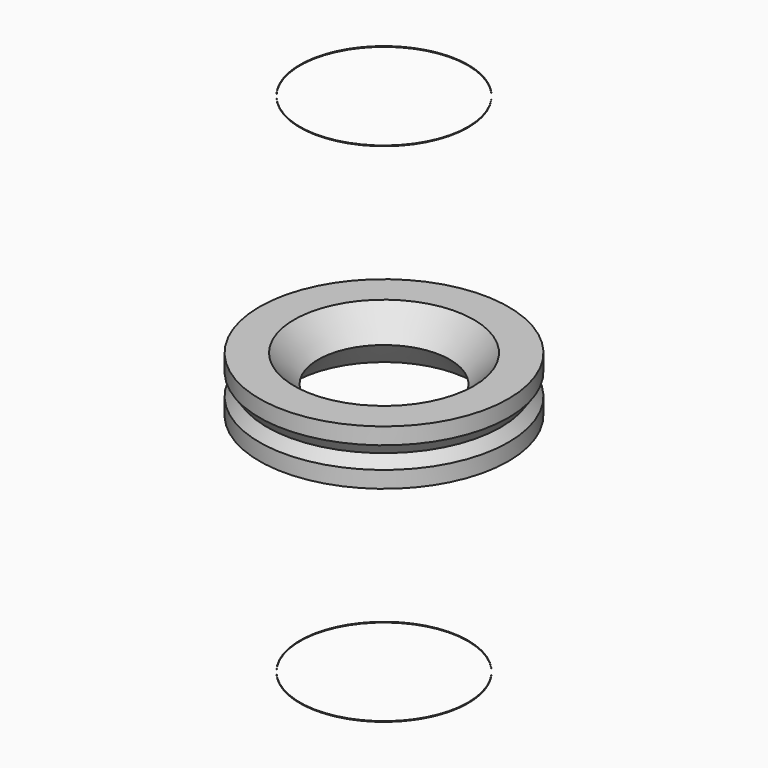
from build123d import *


with BuildPart() as f1:
    # F0 (on Front) → F1 (revolve)
    with BuildSketch(Plane.XZ):
        with BuildLine():
            Line((35.8426310212, 160.8678996653), (35.8426310212, 161.1762195916))
            add(Edge.make_bspline(
                [(35.8426310212, 161.1762195916), (35.7692510566, 161.1782799319), (35.8059410389, 161.0230897986), (35.8426310212, 160.8678996653)],
                knots=[0.9757932931, 0.9757932931, 0.9757932931, 0.9757932931, 1, 1, 1, 1], degree=3))
        make_face()
    revolve(axis=Axis((0, 0, -4.085291177), (0, 0, -1)))


with BuildPart() as f1b:
    # F0 (on Front) → F1, piece 2 (revolve)
    with BuildSketch(Plane.XZ):
        with BuildLine():
            add(Edge.make_bspline(
                [(35.8426310212, -55.2670210635), (35.7692510566, -55.2690814038), (35.8059410389, -55.1138912704), (35.8426310212, -54.9587011372)],
                knots=[0.9757932931, 0.9757932931, 0.9757932931, 0.9757932931, 1, 1, 1, 1], degree=3))
            Line((35.8426310212, -55.2670210635), (35.8426310212, -54.9587011372))
        make_face()
    revolve(axis=Axis((0, 0, -4.085291177), (0, 0, -1)))


with BuildPart() as f1c:
    # F0 (on Front) → F1, piece 3 (revolve)
    with BuildSketch(Plane.XZ):
        Polygon((38.3092164993, 64.670898023), (28.1345378608, 52.9545992641), (38.3092164993, 41.2383005051), (41.6699527481, 41.2383005051), (49.8713611715, 52.9545992641), (41.6699527481, 64.670898023), align=None)
        Polygon((53.1087592335, 64.670898023), (41.6699527481, 64.670898023), (49.8713611715, 52.9545992641), (53.1087592335, 57.5794540374), align=None)
        Polygon((49.8713611715, 52.9545992641), (41.6699527481, 41.2383005051), (53.1087592335, 41.2383005051), (53.1087592335, 48.3297444908), align=None)
    revolve(axis=Axis((0, 0, -4.085291177), (0, 0, -1)))


solid = Compound([f1.part, f1b.part, f1c.part])
